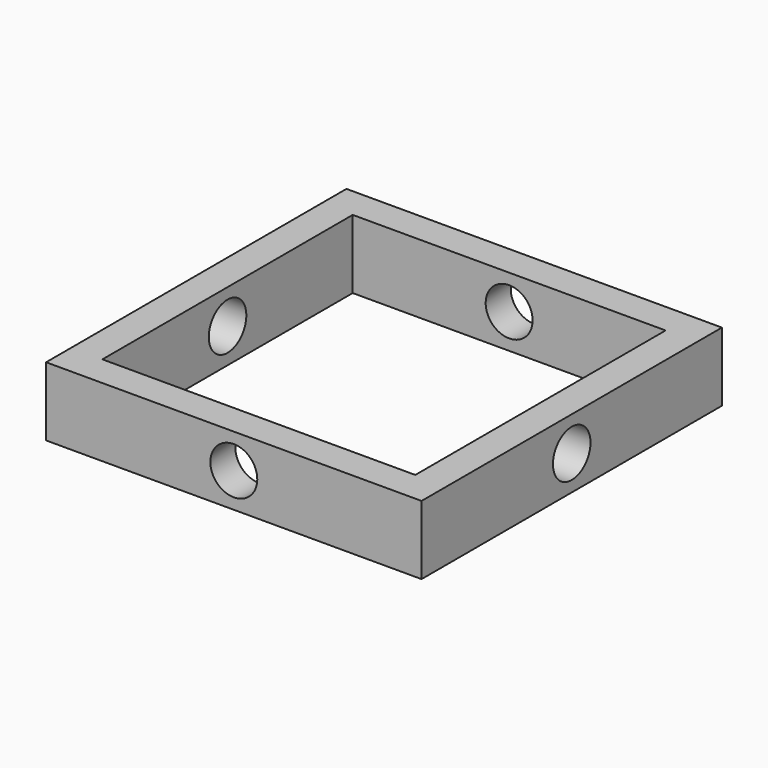
from build123d import *

# Parameters (mm, degrees)
F0_W     = 120
F0_H     = 120
F0_W_2   = 100
F0_H_2   = 100
F1_DEPTH = 22
F2_R     = 7.5
F3_DEPTH = 237
F4_R     = 7.5
F5_DEPTH = 185


with BuildPart() as f1:
    # F0 (on Top) → F1 (new body)
    with BuildSketch(Plane.XY):
        with Locations((56.498835, 49.731983)):
            Rectangle(F0_W, F0_H)
        with Locations((56.498835, 49.731983)):
            Rectangle(F0_W_2, F0_H_2, mode=Mode.SUBTRACT)
    extrude(amount=F1_DEPTH)

    # F2 (on face) → F3 (cut)
    with BuildSketch(Plane.XZ.offset(10.268017)):
        with Locations((56.498835, 11)):
            Circle(F2_R)
    extrude(amount=-F3_DEPTH, mode=Mode.SUBTRACT)

    # F4 (on face) → F5 (cut)
    with BuildSketch(Plane(origin=(-3.501165, 0, 0), x_dir=(0, -1, 0), z_dir=(-1, 0, 0))):
        with Locations((-49.731983, 11)):
            Circle(F4_R)
    extrude(amount=-F5_DEPTH, mode=Mode.SUBTRACT)


solid = f1.part
